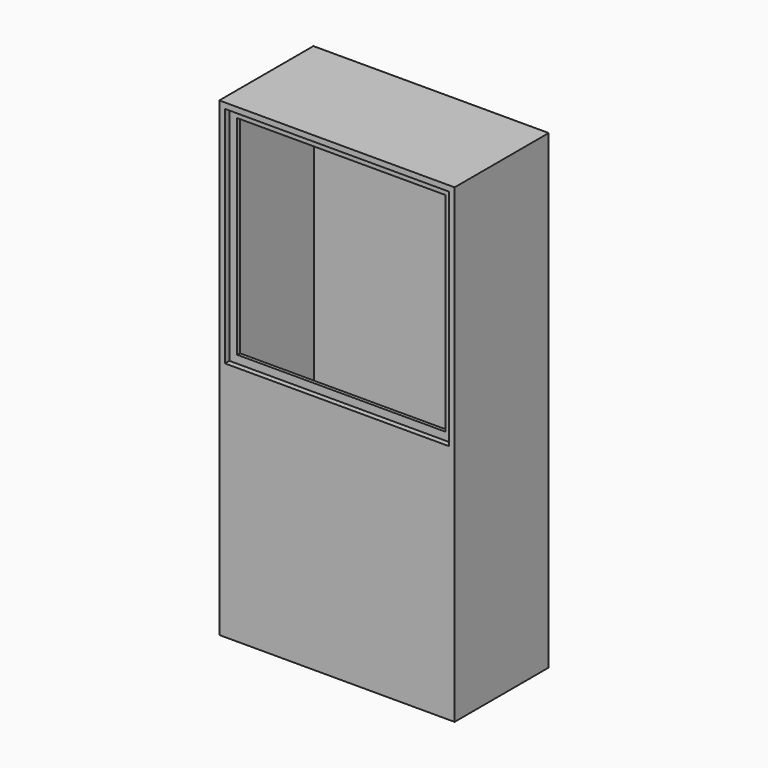
from build123d import *

# Parameters (mm, degrees)
F0_W      = 420
F0_H      = 420
F1_DEPTH  = 105
F2_T      = -6
F3_W      = 6
F3_H      = 408
F4_DEPTH  = 18
F5_W      = 6
F5_H      = 408
F6_DEPTH  = 18
F7_W      = 6
F7_H      = 18
F8_DEPTH  = 372
F9_W      = 6
F9_H      = 18
F10_DEPTH = 372
F11_W     = 408
F11_H     = 408
F11_W_2   = 400
F11_H_2   = 400
F12_DEPTH = 10
F14_W     = 400
F14_H     = 400
F15_DEPTH = 10
F16_DEPTH = 25.4


with BuildPart() as f1:
    # F0 (on Front) → F1 (new body, symmetric)
    with BuildSketch(Plane.XZ):
        Rectangle(F0_W, F0_H)
    extrude(amount=F1_DEPTH, both=True)

    # F2
    f2_openings = [f1.faces().sort_by_distance(p)[0] for p in [
        (0, -105, 0),
    ]]
    offset(amount=F2_T, openings=f2_openings)

    # F3 (on face) → F4 (join)
    with BuildSketch(Plane.YZ.offset(-204)):
        with Locations((-92, 0)):
            Rectangle(F3_W, F3_H)
    extrude(amount=F4_DEPTH)

    # F5 (on face) → F6 (join)
    with BuildSketch(Plane(origin=(204, 0, 0), x_dir=(0, -1, 0), z_dir=(-1, 0, 0))):
        with Locations((92, 0)):
            Rectangle(F5_W, F5_H)
    extrude(amount=F6_DEPTH)

    # F7 (on face) → F8 (join, through all)
    with BuildSketch(Plane.YZ.offset(-186)):
        with Locations((-92, 195)):
            Rectangle(F7_W, F7_H)
    extrude(amount=F8_DEPTH)

    # F9 (on face) → F10 (join, through all)
    with BuildSketch(Plane.YZ.offset(-186)):
        with Locations((-92, -195)):
            Rectangle(F9_W, F9_H)
    extrude(amount=F10_DEPTH)

    # F11 (on face) → F12 (join)
    with BuildSketch(Plane.XZ.offset(95)):
        Rectangle(F11_W, F11_H)
        Rectangle(F11_W_2, F11_H_2, mode=Mode.SUBTRACT)
    extrude(amount=F12_DEPTH)

    # F13: F1 across face


with BuildPart() as f1_1:
    add(f1.part)
    add(f1.part.mirror(Plane(origin=(0, 0, -210), x_dir=(1, 0, 0), z_dir=(0, 0, -1))))

    # F14 (on face) → F15 (join)
    with BuildSketch(Plane.XZ.offset(95)):
        with Locations((0, -420)):
            Rectangle(F14_W, F14_H)
    extrude(amount=F15_DEPTH)

    # F16 (cut): a face of the model
    f16_faces = [f1_1.faces().sort_by_distance(p)[0] for p in [
        (0, 5, -204),
    ]]
    extrude(f16_faces, amount=-F16_DEPTH, mode=Mode.SUBTRACT)


solid = f1_1.part
